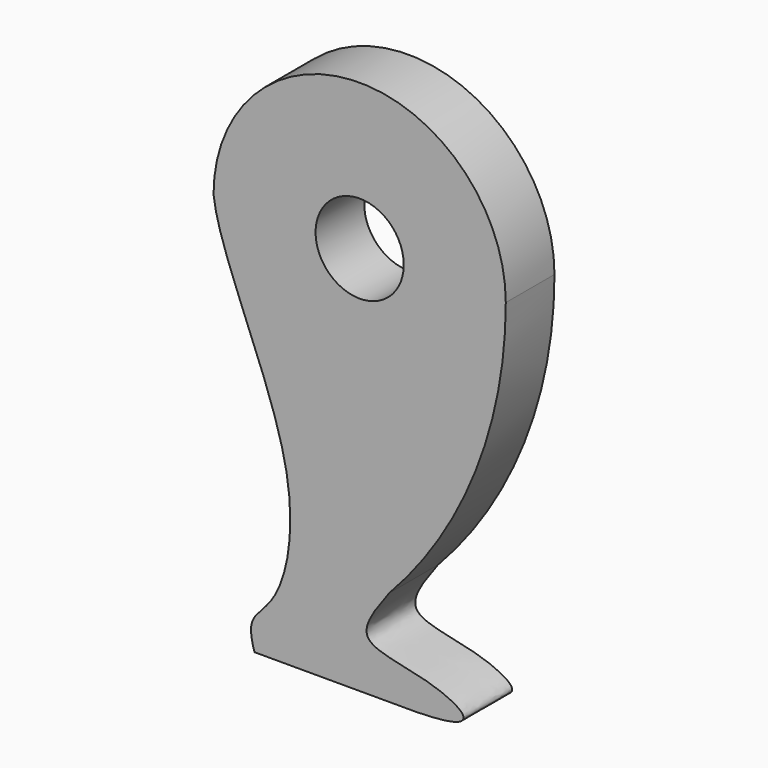
from build123d import *

# Parameters (mm, degrees)
F0_R     = 1.84
F1_DEPTH = 2.54


with BuildPart() as f1:
    # F0 (on Front) → F1 (new body)
    with BuildSketch(Plane.XZ):
        with BuildLine():
            ThreePointArc((1.2319305679, -12.2597124428), (4.838456469, -6.5954273776), (6.1, 0))
            ThreePointArc((6.1, 0), (0, 6.1), (-6.1, 0))
            add(Edge.make_bspline(
                [(-6.1, 0), (-5.8444667812, -2.2088047684), (-2.1311337131, -8.6697530505), (-3.2240470994, -14.1840492277), (-4.8069455536, -15.0467382321), (-4.3902020028, -16.26), (-4.3902026912, -16.26)],
                knots=[0, 0, 0, 0, 0.4087145702, 0.7098277547, 0.8724034833, 1, 1, 1, 1], degree=3))
            Line((-4.3902026912, -16.26), (2.3686271368, -16.26))
            add(Edge.make_bspline(
                [(1.2319305679, -12.2597124428), (0.8872710552, -12.751108876), (-0.7742010564, -14.7236002965), (3.2331807307, -14.6516562075), (5.1952149021, -16.2145374156), (2.3686271368, -16.26)],
                knots=[0, 0, 0, 0, 0.3177259663, 0.7254104678, 1, 1, 1, 1], degree=3))
        make_face()
        Circle(F0_R, mode=Mode.SUBTRACT)
    extrude(amount=F1_DEPTH)


solid = f1.part
